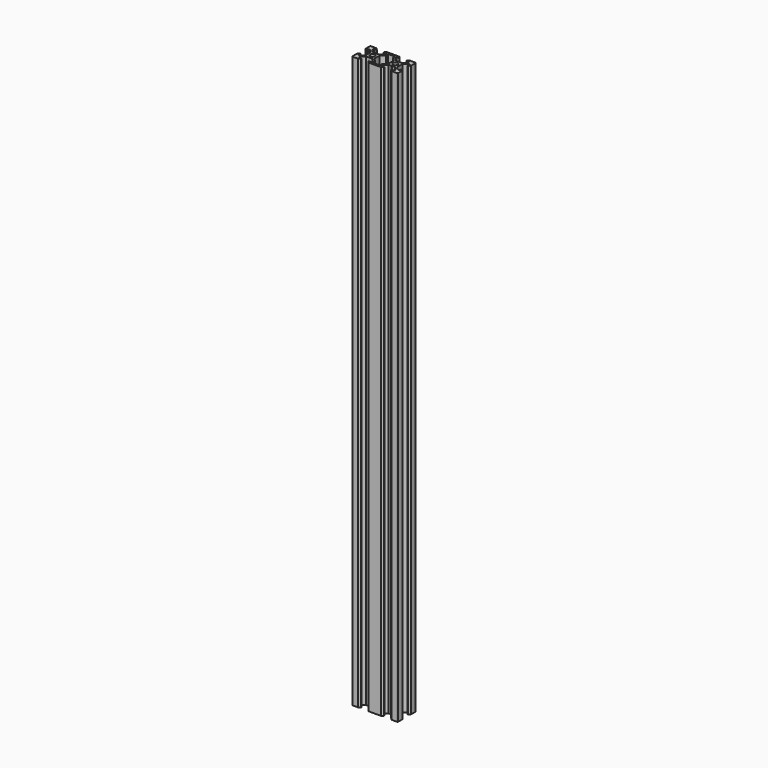
from build123d import *

# Parameters (mm, degrees)
SKETCH_R  = 2.1
PAD_DEPTH = 500


with BuildPart() as part:
    # Sketch → Pad (new body)
    with BuildSketch(Plane.XY):
        with BuildLine():
            Line((-10, 4.58), (-10, 9.5))
            ThreePointArc((-9.5, 10), (-9.853553, 9.853553), (-10, 9.5))
            Line((-9.5, 10), (-4.58, 10))
            Line((-4.58, 10), (-3.125, 8.545))
            Line((-3.125, 8.545), (-3.125, 8.2))
            Line((-5.5, 8.2), (-3.125, 8.2))
            Line((-5.5, 8.2), (-5.5, 6.56066))
            Line((-5.5, 6.56066), (-2.83934, 3.9))
            Line((-0.125, 3.9), (-2.83934, 3.9))
            ThreePointArc((-0.125, 3.9), (0, 3.775), (0.125, 3.9))
            Line((0.125, 3.9), (2.83934, 3.9))
            Line((2.83934, 3.9), (5.5, 6.56066))
            Line((5.5, 6.56066), (5.5, 8.2))
            Line((5.5, 8.2), (3.125, 8.2))
            Line((3.125, 8.2), (3.125, 8.545))
            Line((3.125, 8.545), (4.58, 10))
            Line((4.58, 10), (15.42, 10))
            Line((15.42, 10), (16.875, 8.545))
            Line((16.875, 8.545), (16.875, 8.2))
            Line((16.875, 8.2), (14.5, 8.2))
            Line((14.5, 8.2), (14.5, 6.56066))
            Line((14.5, 6.56066), (17.16066, 3.9))
            Line((17.16066, 3.9), (19.875, 3.9))
            ThreePointArc((19.875, 3.9), (20, 3.775), (20.125, 3.9))
            Line((20.125, 3.9), (22.83934, 3.9))
            Line((22.83934, 3.9), (25.5, 6.56066))
            Line((25.5, 6.56066), (25.5, 8.2))
            Line((25.5, 8.2), (23.125, 8.2))
            Line((23.125, 8.2), (23.125, 8.545))
            Line((23.125, 8.545), (24.58, 10))
            Line((24.58, 10), (29.5, 10))
            ThreePointArc((30, 9.5), (29.853554, 9.853554), (29.5, 10))
            Line((30, 9.5), (30, 4.58))
            Line((30, 4.58), (28.545, 3.125))
            Line((28.545, 3.125), (28.2, 3.125))
            Line((28.2, 3.125), (28.2, 5.5))
            Line((28.2, 5.5), (26.560661, 5.5))
            Line((26.560661, 5.5), (23.9, 2.83934))
            Line((23.9, 2.83934), (23.9, 0.125))
            ThreePointArc((23.9, 0.125), (23.775, 2e-06), (23.899997, -0.125))
            Line((23.899997, -2.83934), (23.899997, -0.125))
            Line((26.560658, -5.5), (23.899997, -2.83934))
            Line((28.199997, -5.5), (26.560658, -5.5))
            Line((28.199997, -3.125), (28.199997, -5.5))
            Line((28.544997, -3.125), (28.199997, -3.125))
            Line((29.999997, -4.58), (28.544997, -3.125))
            Line((29.999997, -9.5), (29.999997, -4.58))
            ThreePointArc((29.5, -10), (29.853552, -9.853552), (29.999997, -9.5))
            Line((24.58, -10), (29.5, -10))
            Line((23.125, -8.545), (24.58, -10))
            Line((23.125, -8.2), (23.125, -8.545))
            Line((25.5, -8.2), (23.125, -8.2))
            Line((25.5, -6.56066), (25.5, -8.2))
            Line((22.83934, -3.9), (25.5, -6.56066))
            Line((20.125, -3.9), (22.83934, -3.9))
            ThreePointArc((20.125, -3.9), (20, -3.775), (19.875, -3.9))
            Line((17.16066, -3.9), (19.875, -3.9))
            Line((14.5, -6.56066), (17.16066, -3.9))
            Line((14.5, -8.2), (14.5, -6.56066))
            Line((16.875, -8.2), (14.5, -8.2))
            Line((16.875, -8.545), (16.875, -8.2))
            Line((15.42, -10), (16.875, -8.545))
            Line((4.58, -10), (15.42, -10))
            Line((4.58, -10), (3.125, -8.545))
            Line((3.125, -8.545), (3.125, -8.2))
            Line((3.125, -8.2), (5.5, -8.2))
            Line((5.5, -8.2), (5.5, -6.56066))
            Line((2.83934, -3.9), (5.5, -6.56066))
            Line((0.125, -3.9), (2.83934, -3.9))
            ThreePointArc((0.125, -3.9), (0, -3.775), (-0.125, -3.9))
            Line((-0.125, -3.9), (-2.83934, -3.9))
            Line((-2.83934, -3.9), (-5.5, -6.56066))
            Line((-5.5, -6.56066), (-5.5, -8.2))
            Line((-5.5, -8.2), (-3.125, -8.2))
            Line((-3.125, -8.545), (-3.125, -8.2))
            Line((-4.58, -10), (-3.125, -8.545))
            Line((-9.5, -10), (-4.58, -10))
            ThreePointArc((-10, -9.5), (-9.853553, -9.853553), (-9.5, -10))
            Line((-10, -4.58), (-10, -9.5))
            Line((-8.545, -3.125), (-10, -4.58))
            Line((-8.2, -3.125), (-8.545, -3.125))
            Line((-8.2, -5.5), (-8.2, -3.125))
            Line((-6.56066, -5.5), (-8.2, -5.5))
            Line((-3.9, -2.83934), (-6.56066, -5.5))
            Line((-3.9, -0.125), (-3.9, -2.83934))
            ThreePointArc((-3.9, -0.125), (-3.775, 0), (-3.9, 0.125))
            Line((-3.9, 2.83934), (-3.9, 0.125))
            Line((-6.56066, 5.5), (-3.9, 2.83934))
            Line((-8.2, 5.5), (-6.56066, 5.5))
            Line((-8.2, 5.5), (-8.2, 3.125))
            Line((-8.545, 3.125), (-8.2, 3.125))
            Line((-10, 4.58), (-8.545, 3.125))
        make_face()
        Circle(SKETCH_R, mode=Mode.SUBTRACT)
        with Locations((20, 0)):
            Circle(SKETCH_R, mode=Mode.SUBTRACT)
        with BuildLine():
            Line((7, 5.93934), (3.9, 2.83934))
            Line((3.9, 2.83934), (3.9, 0.125))
            ThreePointArc((3.9, 0.125), (3.775, 0), (3.9, -0.125))
            Line((3.9, -0.125), (3.9, -2.83934))
            Line((3.9, -2.83934), (7, -5.93934))
            Line((7, -5.93934), (7, -8.2))
            Line((7, -8.2), (13, -8.2))
            Line((13, -8.2), (13, -5.93934))
            Line((13, -5.93934), (16.1, -2.83934))
            Line((16.1, -2.83934), (16.1, -0.125))
            ThreePointArc((16.1, -0.125), (16.224999, 0), (16.1, 0.125))
            Line((16.1, 2.83934), (16.1, 0.125))
            Line((13, 5.93934), (16.1, 2.83934))
            Line((13, 8.2), (13, 5.93934))
            Line((7, 8.2), (13, 8.2))
            Line((7, 5.93934), (7, 8.2))
        make_face(mode=Mode.SUBTRACT)
    extrude(amount=PAD_DEPTH)


solid = part.part
